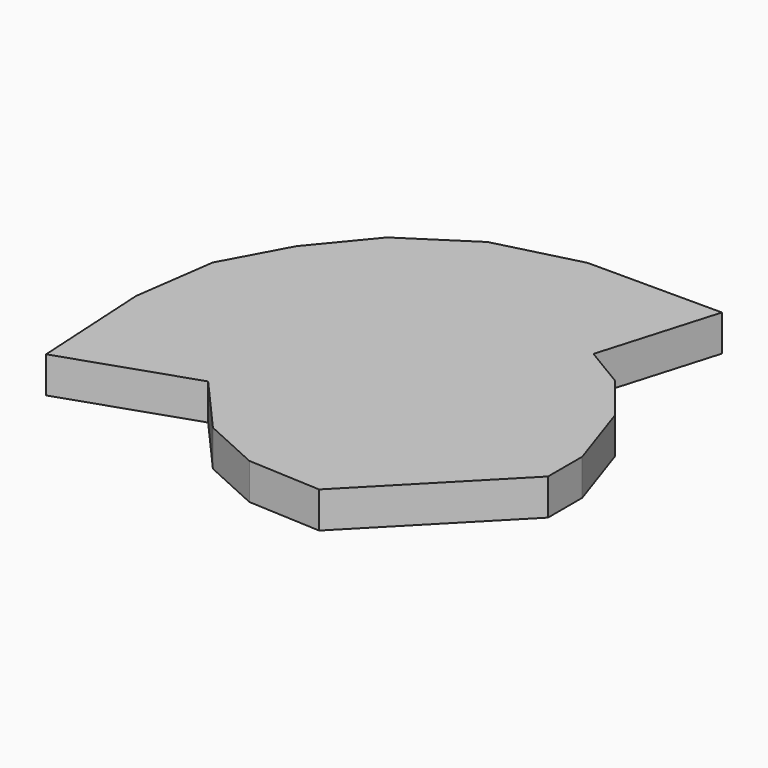
from build123d import *

# Parameters (mm, degrees)
PAD_DEPTH = 2


with BuildPart() as part:
    # Sketch → Pad (new body)
    with BuildSketch(Plane.XY):
        Polygon((-24.999799, -1.400333), (-25.372607, 5.274486), (-24.742257, 9.779493), (-22.882162, 13.22245), (-20.334975, 16.306869), (-16.690786, 18.678731), (-12.09636, 19.85417), (-8.700973, 19.85417), (-4.681945, 19.85417), (-6.591147, 13.373491), (-4.326673, 12.016697), (-2.289959, 9.482695), (-0.969563, 5.571059), (-0.969563, 3.209863), (-7.921693, -3.901841), (-11.938382, -3.697384), (-15.102503, -2.256447), (-17.95905, 0.985588), align=None)
    extrude(amount=PAD_DEPTH)


solid = part.part
